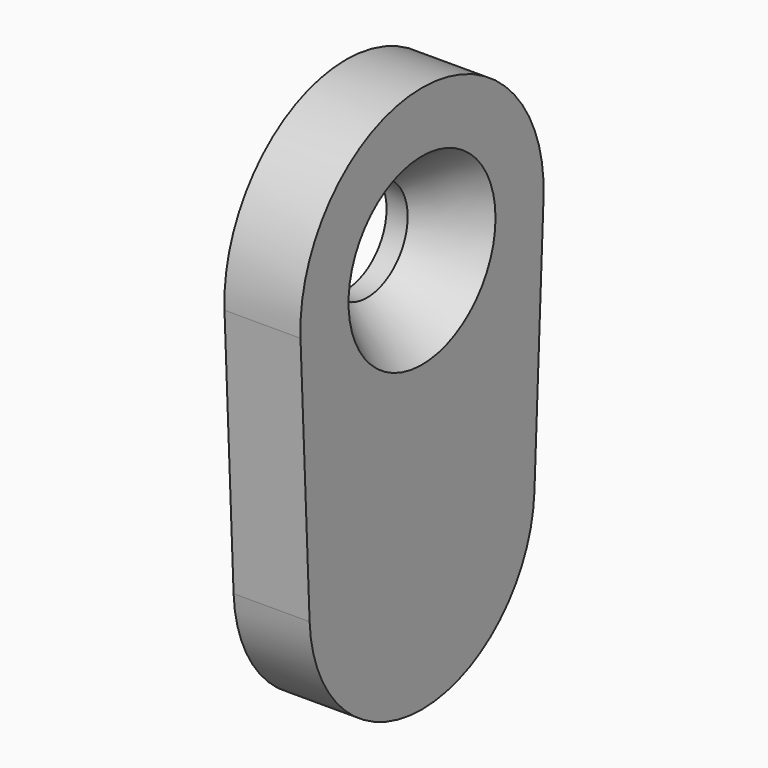
from build123d import *

# Parameters (mm, degrees)
SKETCH003_R     = 1.75
SKETCH004_R     = 4
PAD_DEPTH       = 3
SKETCH001_R     = 3.1
POCKET_DEPTH    = 2.3
SKETCH002_R     = 2
POCKET001_DEPTH = 3.001


with BuildPart() as obj1:
    # Sketch003 → Loft section 0
    with BuildSketch(Plane.YZ.offset(0.5)):
        with Locations((0, 10.05)):
            Circle(SKETCH003_R)
    # Sketch004 → Loft section 1
    with BuildSketch(Plane.YZ.offset(3.5)):
        with Locations((0, 10.05)):
            Circle(SKETCH004_R)
    loft()


with BuildPart() as cut:
    # Sketch → Pad (new body)
    with BuildSketch(Plane.YZ):
        with BuildLine():
            Line((-5.993983, 9.781369), (-5.544434, -0.248507))
            ThreePointArc((-5.544434, -0.248507), (0, -5.55), (5.544434, -0.248507))
            Line((5.993983, 9.781369), (5.544434, -0.248507))
            ThreePointArc((5.993983, 9.781369), (0, 16.05), (-5.993983, 9.781369))
        make_face()
    extrude(amount=PAD_DEPTH)

    # Sketch001 → Pocket (cut)
    with BuildSketch(Plane(origin=(0, 0, 0), x_dir=(0, 1, 0), z_dir=(-1, 0, 0))):
        Circle(SKETCH001_R)
    extrude(amount=-POCKET_DEPTH, mode=Mode.SUBTRACT)

    # Sketch002 → Pocket001 (cut, through all)
    with BuildSketch(Plane.YZ.offset(3)):
        with Locations((0, 10.05)):
            Circle(SKETCH002_R)
    extrude(amount=-POCKET001_DEPTH, mode=Mode.SUBTRACT)

    # Cut: cut obj1
    add(obj1.part, mode=Mode.SUBTRACT)


solid = cut.part
